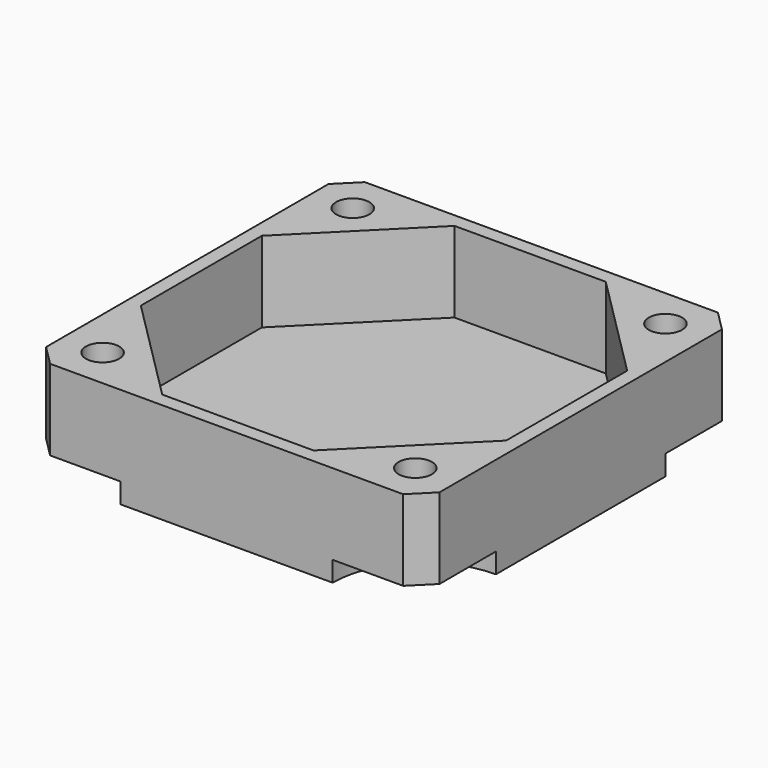
from build123d import *

# Parameters (mm, degrees)
F0_W     = 39
F0_H     = 39
F1_DEPTH = 10
F3_DEPTH = 2
F4_D     = 3.3
F4_DEPTH = 20
F4_TIP   = 0.9914200214
F5_SIZE  = 2
F8_DEPTH = 8


with BuildPart() as f1:
    # F0 (on Top) → F1 (new body)
    with BuildSketch(Plane.XY):
        with Locations((-18.7466505767, 6.1744563282)):
            Rectangle(F0_W, F0_H)
    extrude(amount=F1_DEPTH)

    # F2 (on face) → F3 (cut)
    with BuildSketch(Plane.XY):
        with BuildLine():
            ThreePointArc((-8.2466505767, 25.6744563282), (-5.6106116074, 19.3104952975), (0.7533494233, 16.6744563282))
            Line((0.7533494233, 16.6744563282), (0.7533494233, 25.6744563282))
            Line((0.7533494233, 25.6744563282), (-8.2466505767, 25.6744563282))
        make_face()
        with BuildLine():
            ThreePointArc((-38.2466505767, 16.6744563282), (-31.882689546, 19.3104952975), (-29.2466505767, 25.6744563282))
            Line((-29.2466505767, 25.6744563282), (-38.2466505767, 25.6744563282))
            Line((-38.2466505767, 25.6744563282), (-38.2466505767, 16.6744563282))
        make_face()
        with BuildLine():
            Line((-38.2466505767, -13.3255436718), (-29.2466505767, -13.3255436718))
            ThreePointArc((-29.2466505767, -13.3255436718), (-31.882689546, -6.9615826412), (-38.2466505767, -4.3255436718))
            Line((-38.2466505767, -4.3255436718), (-38.2466505767, -13.3255436718))
        make_face()
        with BuildLine():
            Line((-8.2466505767, -13.3255436718), (0.7533494233, -13.3255436718))
            Line((0.7533494233, -13.3255436718), (0.7533494233, -4.3255436718))
            ThreePointArc((0.7533494233, -4.3255436718), (-5.6106116074, -6.9615826412), (-8.2466505767, -13.3255436718))
        make_face()
    extrude(amount=F3_DEPTH, mode=Mode.SUBTRACT)

    # F4
    with Locations(Plane(origin=(0, 0, 0), x_dir=(1, 0, 0), z_dir=(0, 0, -1))):
        with Locations((-3.2466505767, -21.6744563282), (-34.2466505767, -21.6744563282), (-34.2466505767, 9.3255436718), (-3.2466505767, 9.3255436718)):
            Hole(F4_D / 2, depth=F4_DEPTH)
            with Locations((0, 0, -(F4_DEPTH + F4_TIP / 2))):  # 118° drill point
                Cone(0, F4_D / 2, F4_TIP, mode=Mode.SUBTRACT)

    # F5
    f5_edges = [f1.edges().sort_by_distance(p)[0] for p in [
        (0.753349, -13.325544, 6),
        (0.753349, 25.674456, 6),
        (-38.246651, 25.674456, 6),
        (-38.246651, -13.325544, 6),
    ]]
    chamfer(f5_edges, length=F5_SIZE)

    # F7 (on face) → F8 (cut)
    with BuildSketch(Plane.XY.offset(10)):
        Polygon((-11.2466505767, -11.9321453896), (-0.6400488589, -1.3255436718), (-0.6400488589, 13.6744563282), (-11.2466505767, 24.281058046), (-26.2466505767, 24.281058046), (-36.8532522945, 13.6744563282), (-36.8532522945, -1.3255436718), (-26.2466505767, -11.9321453896), align=None)
    extrude(amount=-F8_DEPTH, mode=Mode.SUBTRACT)


solid = f1.part
